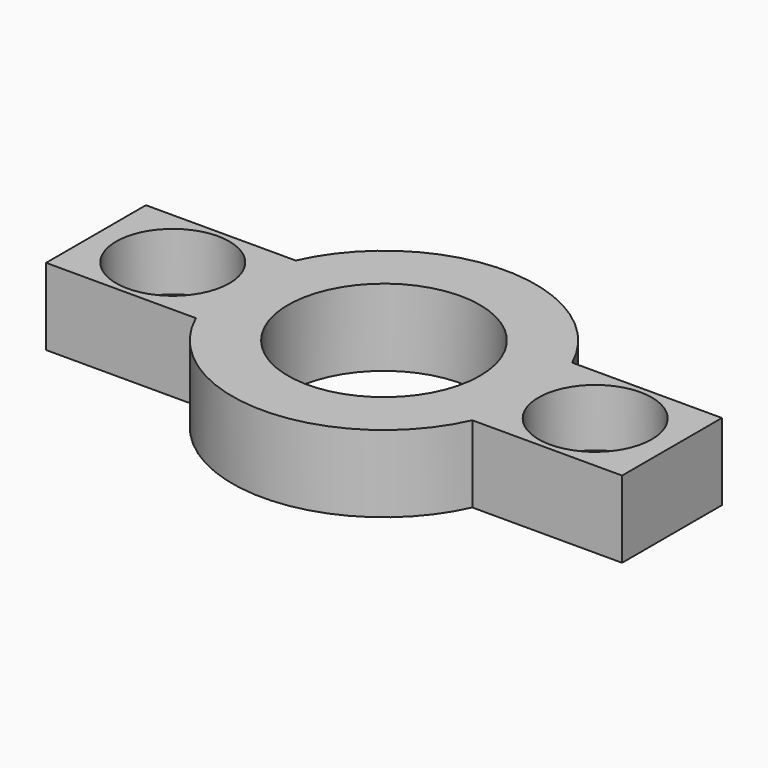
from build123d import *

# Parameters (mm, degrees)
SKETCH_R        = 5
PAD_DEPTH       = 4
SKETCH001_R     = 1.7
POCKET_DEPTH    = 4.001
SKETCH002_R     = 2.95
POCKET001_DEPTH = 3


with BuildPart() as part:
    # Sketch → Pad (new body)
    with BuildSketch(Plane.XY):
        with BuildLine():
            Line((-7.200521, 3.25), (-15, 3.25))
            Line((-15, 3.25), (-15, -3.25))
            Line((-15, -3.25), (-7.200521, -3.25))
            ThreePointArc((-7.200521, -3.25), (0, -7.9), (7.200521, -3.25))
            Line((15, -3.25), (7.200521, -3.25))
            Line((15, 3.25), (15, -3.25))
            Line((7.200521, 3.25), (15, 3.25))
            ThreePointArc((7.200521, 3.25), (0, 7.9), (-7.200521, 3.25))
        make_face()
        Circle(SKETCH_R, mode=Mode.SUBTRACT)
    extrude(amount=PAD_DEPTH)

    # Sketch001 (on Face10 of Pad) → Pocket (cut, through all)
    with BuildSketch(Plane(origin=(0, 0, 0), x_dir=(1, 0, 0), z_dir=(0, 0, -1))):
        with Locations((11, 0)):
            Circle(SKETCH001_R)
        with Locations((-11, 0)):
            Circle(SKETCH001_R)
    extrude(amount=-POCKET_DEPTH, mode=Mode.SUBTRACT)

    # Sketch002 (on Face5 of Pocket) → Pocket001 (cut)
    with BuildSketch(Plane.XY.offset(4)):
        with Locations((11, 0)):
            Circle(SKETCH002_R)
        with Locations((-11, 0)):
            Circle(SKETCH002_R)
    extrude(amount=-POCKET001_DEPTH, mode=Mode.SUBTRACT)


solid = part.part
